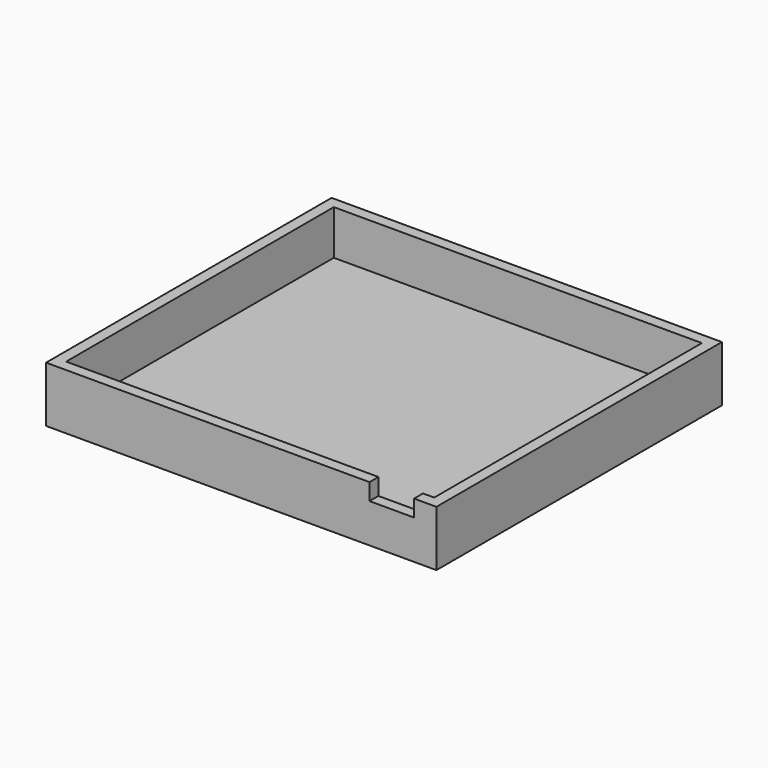
from build123d import *

# Parameters (mm, degrees)
F0_W     = 444.5
F0_H     = 406.4
F0_W_2   = 419.1
F0_H_2   = 381
F1_DEPTH = 63.5
F2_W     = 419.1
F2_H     = 381
F3_DEPTH = 12.7
F4_W     = 419.1
F4_H     = 381
F5_DEPTH = 6.35
F6_W     = 50.8
F6_H     = 19.05
F7_DEPTH = 25.4


with BuildPart() as f1:
    # F0 (on Top) → F1 (new body)
    with BuildSketch(Plane.XY):
        Rectangle(F0_W, F0_H)
        Rectangle(F0_W_2, F0_H_2, mode=Mode.SUBTRACT)
    extrude(amount=F1_DEPTH)

    # F2 (on face) → F3 (join)
    with BuildSketch(Plane(origin=(0, 0, 0), x_dir=(1, 0, 0), z_dir=(0, 0, -1))):
        Rectangle(F2_W, F2_H)
    extrude(amount=-F3_DEPTH)

    # F4 (on face) → F5 (cut)
    with BuildSketch(Plane(origin=(0, 0, 0), x_dir=(1, 0, 0), z_dir=(0, 0, -1))):
        Rectangle(F4_W, F4_H)
    extrude(amount=-F5_DEPTH, mode=Mode.SUBTRACT)

    # F6 (on face) → F7 (cut)
    with BuildSketch(Plane.XZ.offset(203.2)):
        with Locations((171.45, 53.975)):
            Rectangle(F6_W, F6_H)
    extrude(amount=-F7_DEPTH, mode=Mode.SUBTRACT)


solid = f1.part
